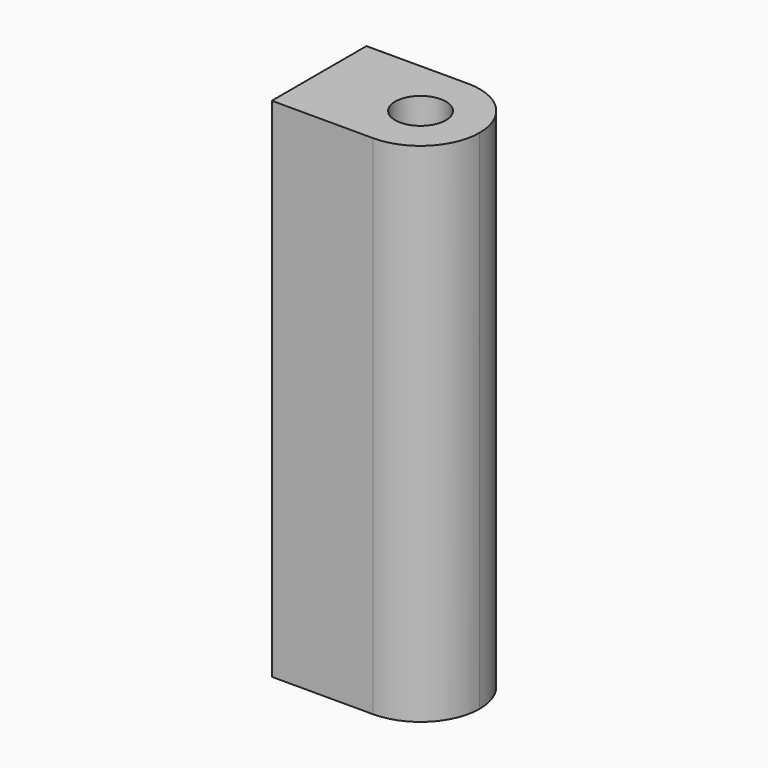
from build123d import *

# Parameters (mm, degrees)
F0_R     = 1.5
F1_DEPTH = 30
F3_D     = 2.5
F3_DEPTH = 6


with BuildPart() as f1:
    # F0 (on Top) → F1 (new body)
    with BuildSketch(Plane.XY):
        with BuildLine():
            ThreePointArc((0, -3.5), (-3.5, 0), (0, 3.5))
            Line((0, 3.5), (-6, 3.5))
            Line((-6, 3.5), (-6, -3.5))
            Line((-6, -3.5), (0, -3.5))
        make_face()
        with BuildLine():
            ThreePointArc((0, -3.5), (2.474874, -2.474874), (3.5, 0))
            ThreePointArc((3.5, 0), (2.474874, 2.474874), (0, 3.5))
            ThreePointArc((0, 3.5), (-3.5, 0), (0, -3.5))
        make_face()
        Circle(F0_R, mode=Mode.SUBTRACT)
    extrude(amount=-F1_DEPTH)

    # F3
    with Locations(Plane(origin=(-6, 0, 0), x_dir=(0, -1, 0), z_dir=(-1, 0, 0))):
        with Locations((0, -26), (0, -8)):
            Hole(F3_D / 2, depth=F3_DEPTH)


solid = f1.part
